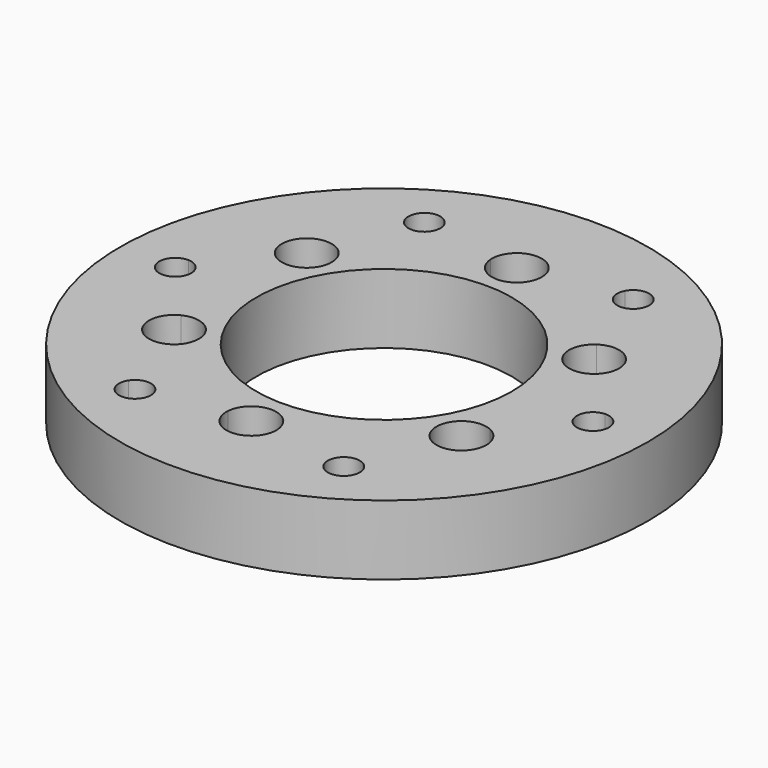
from build123d import *

# Parameters (mm, degrees)
F0_R     = 45.5
F0_R_2   = 22
F1_DEPTH = 12
F3_DEPTH = 5.1


with BuildPart() as f1:
    # F0 (on Top) → F1 (new body)
    with BuildSketch(Plane.XY):
        Circle(F0_R)
        with BuildLine():
            ThreePointArc((20.3273147297, 29.7119551003), (31.1769145362, 18), (35.8949652778, 2.7479933965))
            ThreePointArc((35.8949652778, 2.7479933965), (37.907046737, 1.9813310534), (38.75, 0))
            ThreePointArc((38.75, 0), (37.907046737, -1.9813310534), (35.8949652778, -2.7479933965))
            ThreePointArc((35.8949652778, -2.7479933965), (31.1769145362, -18), (20.3273147297, -29.7119551003))
            ThreePointArc((20.3273147297, -29.7119551003), (20.6422164471, -30.4145548792), (20.75, -31.1769145362))
            ThreePointArc((20.75, -31.1769145362), (18.6608853937, -33.8463209302), (15.5676505481, -32.4599484968))
            ThreePointArc((15.5676505481, -32.4599484968), (0, -36), (-15.5676505481, -32.4599484968))
            ThreePointArc((-15.5676505481, -32.4599484968), (-19.375, -33.5584843966), (-20.3273147297, -29.7119551003))
            ThreePointArc((-20.3273147297, -29.7119551003), (-31.1769145362, -18), (-35.8949652778, -2.7479933965))
            ThreePointArc((-35.8949652778, -2.7479933965), (-38.75, 0), (-35.8949652778, 2.7479933965))
            ThreePointArc((-35.8949652778, 2.7479933965), (-31.1769145362, 18), (-20.3273147297, 29.7119551003))
            ThreePointArc((-20.3273147297, 29.7119551003), (-19.375, 33.5584843966), (-15.5676505481, 32.4599484968))
            ThreePointArc((-15.5676505481, 32.4599484968), (0, 36), (15.5676505481, 32.4599484968))
            ThreePointArc((15.5676505481, 32.4599484968), (18.6608853937, 33.8463209302), (20.75, 31.1769145362))
            ThreePointArc((20.75, 31.1769145362), (20.6422164471, 30.4145548792), (20.3273147297, 29.7119551003))
        make_face(mode=Mode.SUBTRACT)
        with BuildLine():
            ThreePointArc((35.8949652778, -2.7479933965), (33.25, 0), (35.8949652778, 2.7479933965))
            ThreePointArc((35.8949652778, 2.7479933965), (31.1769145362, 18), (20.3273147297, 29.7119551003))
            ThreePointArc((20.3273147297, 29.7119551003), (16.625, 28.7953446758), (15.5676505481, 32.4599484968))
            ThreePointArc((15.5676505481, 32.4599484968), (0, 36), (-15.5676505481, 32.4599484968))
            ThreePointArc((-15.5676505481, 32.4599484968), (-15.330593606, 31.83779993), (-15.25, 31.1769145362))
            ThreePointArc((-15.25, 31.1769145362), (-17.237640343, 28.5346980891), (-20.3273147297, 29.7119551003))
            ThreePointArc((-20.3273147297, 29.7119551003), (-31.1769145362, 18), (-35.8949652778, 2.7479933965))
            ThreePointArc((-35.8949652778, 2.7479933965), (-34.0186689466, 1.907046737), (-33.25, 0))
            ThreePointArc((-33.25, 0), (-34.0186689466, -1.907046737), (-35.8949652778, -2.7479933965))
            ThreePointArc((-35.8949652778, -2.7479933965), (-31.1769145362, -18), (-20.3273147297, -29.7119551003))
            ThreePointArc((-20.3273147297, -29.7119551003), (-17.237640343, -28.5346980891), (-15.25, -31.1769145362))
            ThreePointArc((-15.25, -31.1769145362), (-15.330593606, -31.83779993), (-15.5676505481, -32.4599484968))
            ThreePointArc((-15.5676505481, -32.4599484968), (0, -36), (15.5676505481, -32.4599484968))
            ThreePointArc((15.5676505481, -32.4599484968), (16.625, -28.7953446758), (20.3273147297, -29.7119551003))
            ThreePointArc((20.3273147297, -29.7119551003), (31.1769145362, -18), (35.8949652778, -2.7479933965))
        make_face()
        with BuildLine():
            ThreePointArc((25.7290409298, 12.4890533202), (27.8730207422, 6.4073953136), (28.6, 0))
            ThreePointArc((28.6, 0), (27.8730207422, -6.4073953136), (25.7290409298, -12.4890533202))
            ThreePointArc((25.7290409298, -12.4890533202), (26.525022948, -13.2433459606), (26.8183265482, -14.3))
            ThreePointArc((26.8183265482, -14.3), (25.7613432375, -16.093437441), (23.6803579094, -16.0374764001))
            ThreePointArc((23.6803579094, -16.0374764001), (14.3, -24.7683265482), (2.0486830204, -28.5265297203))
            ThreePointArc((2.0486830204, -28.5265297203), (2.0496707287, -28.5632589588), (2.05, -28.6))
            ThreePointArc((2.05, -28.6), (-0.0367410412, -30.6496707287), (-2.0486830204, -28.5265297203))
            ThreePointArc((-2.0486830204, -28.5265297203), (-14.3, -24.7683265482), (-23.6803579094, -16.0374764001))
            ThreePointArc((-23.6803579094, -16.0374764001), (-26.543678626, -15.325), (-25.7290409298, -12.4890533202))
            ThreePointArc((-25.7290409298, -12.4890533202), (-28.6, 0), (-25.7290409298, 12.4890533202))
            ThreePointArc((-25.7290409298, 12.4890533202), (-26.543678626, 15.325), (-23.6803579094, 16.0374764001))
            ThreePointArc((-23.6803579094, 16.0374764001), (-14.3, 24.7683265482), (-2.0486830204, 28.5265297203))
            ThreePointArc((-2.0486830204, 28.5265297203), (-0.0367410412, 30.6496707287), (2.05, 28.6))
            ThreePointArc((2.05, 28.6), (2.0496707287, 28.5632589588), (2.0486830204, 28.5265297203))
            ThreePointArc((2.0486830204, 28.5265297203), (14.3, 24.7683265482), (23.6803579094, 16.0374764001))
            ThreePointArc((23.6803579094, 16.0374764001), (25.7613432375, 16.093437441), (26.8183265482, 14.3))
            ThreePointArc((26.8183265482, 14.3), (26.525022948, 13.2433459606), (25.7290409298, 12.4890533202))
        make_face(mode=Mode.SUBTRACT)
        with BuildLine():
            ThreePointArc((25.7290409298, -12.4890533202), (27.8730207422, -6.4073953136), (28.6, 0))
            ThreePointArc((28.6, 0), (27.8730207422, 6.4073953136), (25.7290409298, 12.4890533202))
            ThreePointArc((25.7290409298, 12.4890533202), (22.9929744705, 13.275), (23.6803579094, 16.0374764001))
            ThreePointArc((23.6803579094, 16.0374764001), (14.3, 24.7683265482), (2.0486830204, 28.5265297203))
            ThreePointArc((2.0486830204, 28.5265297203), (0, 26.55), (-2.0486830204, 28.5265297203))
            ThreePointArc((-2.0486830204, 28.5265297203), (-14.3, 24.7683265482), (-23.6803579094, 16.0374764001))
            ThreePointArc((-23.6803579094, 16.0374764001), (-22.9748891072, 15.2930166893), (-22.7183265482, 14.3))
            ThreePointArc((-22.7183265482, 14.3), (-23.7116725089, 12.5433036002), (-25.7290409298, 12.4890533202))
            ThreePointArc((-25.7290409298, 12.4890533202), (-28.6, 0), (-25.7290409298, -12.4890533202))
            ThreePointArc((-25.7290409298, -12.4890533202), (-23.7116725089, -12.5433036002), (-22.7183265482, -14.3))
            ThreePointArc((-22.7183265482, -14.3), (-22.9748891072, -15.2930166893), (-23.6803579094, -16.0374764001))
            ThreePointArc((-23.6803579094, -16.0374764001), (-14.3, -24.7683265482), (-2.0486830204, -28.5265297203))
            ThreePointArc((-2.0486830204, -28.5265297203), (0, -26.55), (2.0486830204, -28.5265297203))
            ThreePointArc((2.0486830204, -28.5265297203), (14.3, -24.7683265482), (23.6803579094, -16.0374764001))
            ThreePointArc((23.6803579094, -16.0374764001), (22.9929744705, -13.275), (25.7290409298, -12.4890533202))
        make_face()
        Circle(F0_R_2, mode=Mode.SUBTRACT)
    extrude(amount=F1_DEPTH)

    # F2 (on face) → F3 (cut)
    with BuildSketch(Plane.XY.offset(12)):
        with BuildLine():
            ThreePointArc((-20.4683265482, 14.3), (-20.9661824008, 16.3084072998), (-22.3444660282, 17.8517460747))
            ThreePointArc((-22.3444660282, 17.8517460747), (-23.0302843715, 16.957771132), (-23.6803579094, 16.0374764001))
            ThreePointArc((-23.6803579094, 16.0374764001), (-22.9748891072, 15.2930166893), (-22.7183265482, 14.3))
            ThreePointArc((-22.7183265482, 14.3), (-23.7116725089, 12.5433036002), (-25.7290409298, 12.4890533202))
            ThreePointArc((-25.7290409298, 12.4890533202), (-26.2010027777, 11.4659257561), (-26.6322986167, 10.425002177))
            ThreePointArc((-26.6322986167, 10.425002177), (-22.4797767776, 10.6595961835), (-20.4683265482, 14.3))
        make_face()
        with BuildLine():
            ThreePointArc((-23.6803579094, 16.0374764001), (-23.0302843715, 16.957771132), (-22.3444660282, 17.8517460747))
            ThreePointArc((-22.3444660282, 17.8517460747), (-28.4922357845, 16.45), (-26.6322986167, 10.425002177))
            ThreePointArc((-26.6322986167, 10.425002177), (-26.2010027777, 11.4659257561), (-25.7290409298, 12.4890533202))
            ThreePointArc((-25.7290409298, 12.4890533202), (-26.543678626, 15.325), (-23.6803579094, 16.0374764001))
        make_face()
        with BuildLine():
            ThreePointArc((2.0486830204, 28.5265297203), (3.1707184061, 28.4236968881), (4.2878325885, 28.2767482517))
            ThreePointArc((4.2878325885, 28.2767482517), (4.2969570705, 28.438259669), (4.3, 28.6))
            ThreePointArc((4.3, 28.6), (-0.161740331, 32.8969570705), (-4.2878325885, 28.2767482517))
            ThreePointArc((-4.2878325885, 28.2767482517), (-3.1707184061, 28.4236968881), (-2.0486830204, 28.5265297203))
            ThreePointArc((-2.0486830204, 28.5265297203), (-0.0367410412, 30.6496707287), (2.05, 28.6))
            ThreePointArc((2.05, 28.6), (2.0496707287, 28.5632589588), (2.0486830204, 28.5265297203))
        make_face()
        with BuildLine():
            ThreePointArc((-4.2878325885, 28.2767482517), (0, 24.3), (4.2878325885, 28.2767482517))
            ThreePointArc((4.2878325885, 28.2767482517), (3.1707184061, 28.4236968881), (2.0486830204, 28.5265297203))
            ThreePointArc((2.0486830204, 28.5265297203), (0, 26.55), (-2.0486830204, 28.5265297203))
            ThreePointArc((-2.0486830204, 28.5265297203), (-3.1707184061, 28.4236968881), (-4.2878325885, 28.2767482517))
        make_face()
        with BuildLine():
            ThreePointArc((25.7290409298, 12.4890533202), (26.2010027777, 11.4659257561), (26.6322986167, 10.425002177))
            ThreePointArc((26.6322986167, 10.425002177), (28.4087303647, 12.0114502293), (29.0683265482, 14.3))
            ThreePointArc((29.0683265482, 14.3), (26.776733848, 18.1021441475), (22.3444660282, 17.8517460747))
            ThreePointArc((22.3444660282, 17.8517460747), (23.0302843715, 16.957771132), (23.6803579094, 16.0374764001))
            ThreePointArc((23.6803579094, 16.0374764001), (25.7613432375, 16.093437441), (26.8183265482, 14.3))
            ThreePointArc((26.8183265482, 14.3), (26.525022948, 13.2433459606), (25.7290409298, 12.4890533202))
        make_face()
        with BuildLine():
            ThreePointArc((22.3444660282, 17.8517460747), (21.044417312, 12.15), (26.6322986167, 10.425002177))
            ThreePointArc((26.6322986167, 10.425002177), (26.2010027777, 11.4659257561), (25.7290409298, 12.4890533202))
            ThreePointArc((25.7290409298, 12.4890533202), (22.9929744705, 13.275), (23.6803579094, 16.0374764001))
            ThreePointArc((23.6803579094, 16.0374764001), (23.0302843715, 16.957771132), (22.3444660282, 17.8517460747))
        make_face()
        with BuildLine():
            ThreePointArc((29.0683265482, -14.3), (28.4087303647, -12.0114502293), (26.6322986167, -10.425002177))
            ThreePointArc((26.6322986167, -10.425002177), (26.2010027777, -11.4659257561), (25.7290409298, -12.4890533202))
            ThreePointArc((25.7290409298, -12.4890533202), (26.525022948, -13.2433459606), (26.8183265482, -14.3))
            ThreePointArc((26.8183265482, -14.3), (25.7613432375, -16.093437441), (23.6803579094, -16.0374764001))
            ThreePointArc((23.6803579094, -16.0374764001), (23.0302843715, -16.957771132), (22.3444660282, -17.8517460747))
            ThreePointArc((22.3444660282, -17.8517460747), (26.776733848, -18.1021441475), (29.0683265482, -14.3))
        make_face()
        with BuildLine():
            ThreePointArc((25.7290409298, -12.4890533202), (26.2010027777, -11.4659257561), (26.6322986167, -10.425002177))
            ThreePointArc((26.6322986167, -10.425002177), (21.044417312, -12.15), (22.3444660282, -17.8517460747))
            ThreePointArc((22.3444660282, -17.8517460747), (23.0302843715, -16.957771132), (23.6803579094, -16.0374764001))
            ThreePointArc((23.6803579094, -16.0374764001), (22.9929744705, -13.275), (25.7290409298, -12.4890533202))
        make_face()
        with BuildLine():
            ThreePointArc((2.0486830204, -28.5265297203), (3.1707184061, -28.4236968881), (4.2878325885, -28.2767482517))
            ThreePointArc((4.2878325885, -28.2767482517), (0, -24.3), (-4.2878325885, -28.2767482517))
            ThreePointArc((-4.2878325885, -28.2767482517), (-3.1707184061, -28.4236968881), (-2.0486830204, -28.5265297203))
            ThreePointArc((-2.0486830204, -28.5265297203), (0, -26.55), (2.0486830204, -28.5265297203))
        make_face()
        with BuildLine():
            ThreePointArc((4.3, -28.6), (4.2969570705, -28.438259669), (4.2878325885, -28.2767482517))
            ThreePointArc((4.2878325885, -28.2767482517), (3.1707184061, -28.4236968881), (2.0486830204, -28.5265297203))
            ThreePointArc((2.0486830204, -28.5265297203), (2.0496707287, -28.5632589588), (2.05, -28.6))
            ThreePointArc((2.05, -28.6), (-0.0367410412, -30.6496707287), (-2.0486830204, -28.5265297203))
            ThreePointArc((-2.0486830204, -28.5265297203), (-3.1707184061, -28.4236968881), (-4.2878325885, -28.2767482517))
            ThreePointArc((-4.2878325885, -28.2767482517), (-0.161740331, -32.8969570705), (4.3, -28.6))
        make_face()
        with BuildLine():
            ThreePointArc((-23.6803579094, -16.0374764001), (-23.0302843715, -16.957771132), (-22.3444660282, -17.8517460747))
            ThreePointArc((-22.3444660282, -17.8517460747), (-20.9661824008, -16.3084072998), (-20.4683265482, -14.3))
            ThreePointArc((-20.4683265482, -14.3), (-22.4797767776, -10.6595961835), (-26.6322986167, -10.425002177))
            ThreePointArc((-26.6322986167, -10.425002177), (-26.2010027777, -11.4659257561), (-25.7290409298, -12.4890533202))
            ThreePointArc((-25.7290409298, -12.4890533202), (-23.7116725089, -12.5433036002), (-22.7183265482, -14.3))
            ThreePointArc((-22.7183265482, -14.3), (-22.9748891072, -15.2930166893), (-23.6803579094, -16.0374764001))
        make_face()
        with BuildLine():
            ThreePointArc((-26.6322986167, -10.425002177), (-28.4922357845, -16.45), (-22.3444660282, -17.8517460747))
            ThreePointArc((-22.3444660282, -17.8517460747), (-23.0302843715, -16.957771132), (-23.6803579094, -16.0374764001))
            ThreePointArc((-23.6803579094, -16.0374764001), (-26.543678626, -15.325), (-25.7290409298, -12.4890533202))
            ThreePointArc((-25.7290409298, -12.4890533202), (-26.2010027777, -11.4659257561), (-26.6322986167, -10.425002177))
        make_face()
    extrude(amount=-F3_DEPTH, mode=Mode.SUBTRACT)


solid = f1.part
